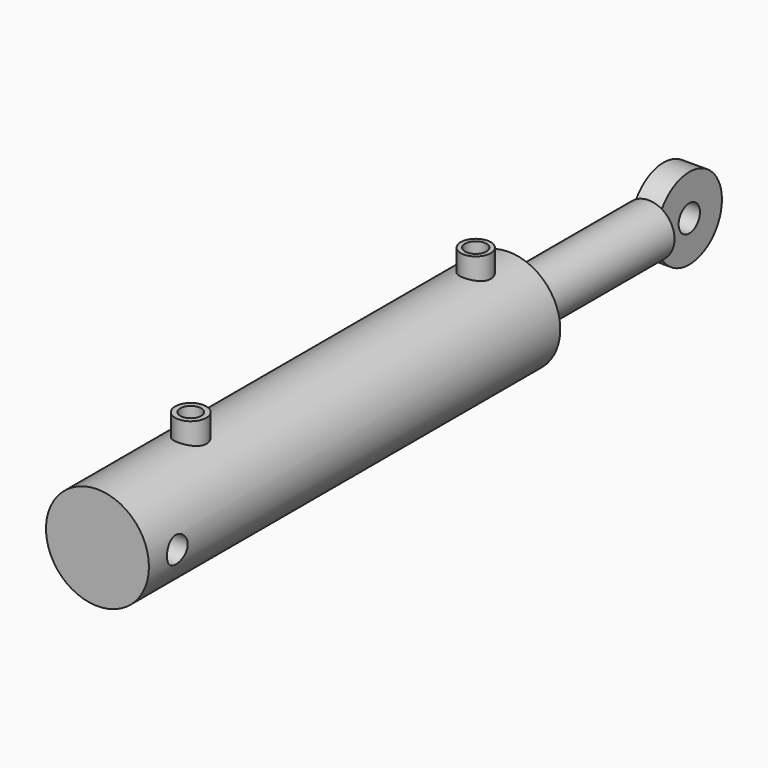
from build123d import *

# Parameters (mm, degrees)
F0_R          = 50.0571816825
F1_DEPTH      = 500
F2_R          = 25.188754889
F3_DEPTH      = 170
F4_R          = 39.6850141268
F4_R_2        = 12.9457043272
F5_DEPTH      = 12.5
F6_R          = 12.6289029658
F7_DEPTH      = 50.0581816825
F7_DEPTH_BACK = 50.0581816825
F8_R          = 14.5825404329
F8_R_2        = 10.3798994513
F9_DEPTH      = 70
F10_R         = 15.1304262214
F10_R_2       = 10.1486644431
F11_DEPTH     = 70


with BuildPart() as f1:
    # F0 (on Front) → F1 (new body)
    with BuildSketch(Plane.XZ):
        Circle(F0_R)
    extrude(amount=F1_DEPTH)

    # F2 (on Front) → F3 (join)
    with BuildSketch(Plane.XZ):
        Circle(F2_R)
    extrude(amount=-F3_DEPTH)

    # F4 (on Right) → F5 (join, symmetric)
    with BuildSketch(Plane.YZ):
        with Locations((203.7855833769, 0)):
            Circle(F4_R)
        with Locations((203.7855833769, 0)):
            Circle(F4_R_2, mode=Mode.SUBTRACT)
    extrude(amount=F5_DEPTH, both=True)

    # F6 (on Right) → F7 (cut, two sides)
    with BuildSketch(Plane.YZ) as f7_sk:
        with Locations((-465.4365181923, 0)):
            Circle(F6_R)
    extrude(amount=-F7_DEPTH, mode=Mode.SUBTRACT)
    extrude(f7_sk.sketch, amount=F7_DEPTH_BACK, mode=Mode.SUBTRACT)

    # F8 (on Top) → F9 (join)
    with BuildSketch(Plane.XY):
        with Locations((0, -40.1445440948)):
            Circle(F8_R)
        with Locations((0, -40.1445440948)):
            Circle(F8_R_2, mode=Mode.SUBTRACT)
    extrude(amount=F9_DEPTH)

    # F10 (on Top) → F11 (join)
    with BuildSketch(Plane.XY):
        with Locations((0, -386.5570127964)):
            Circle(F10_R)
        with Locations((0, -386.5570127964)):
            Circle(F10_R_2, mode=Mode.SUBTRACT)
    extrude(amount=F11_DEPTH)


solid = f1.part
